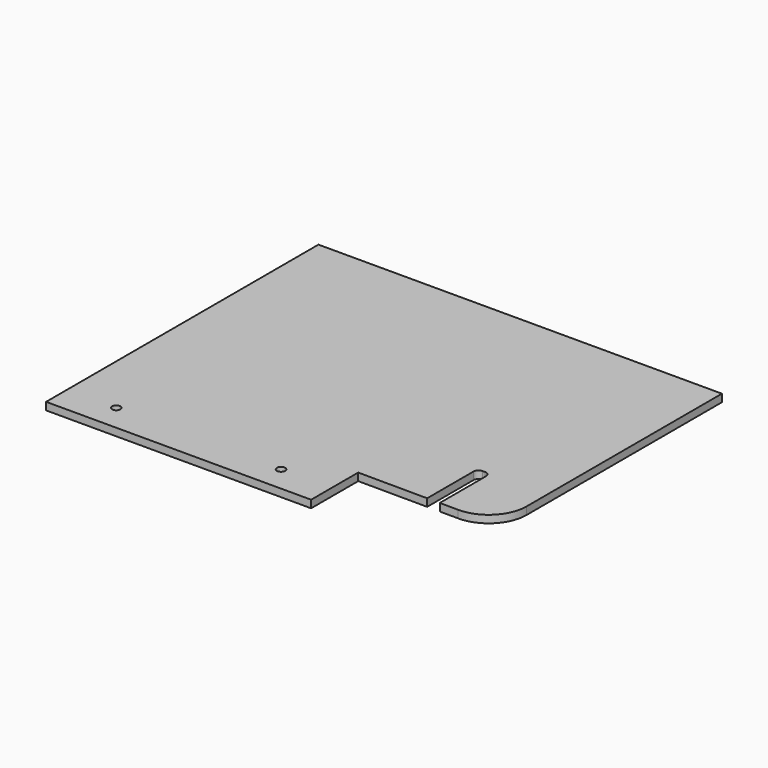
from build123d import *

# Parameters (mm, degrees)
F1_DEPTH = 3
F2_R     = 2
F3_R     = 2
F4_D     = 3.3
F5_R     = 15


with BuildPart() as f1:
    # F0 (on Top) → F1 (new body)
    with BuildSketch(Plane.XY):
        Polygon((110.177106271, 34.1935047355), (-49.822893729, 34.1935047355), (-49.822893729, -100.8064952645), (55.2746254304, -100.8064952645), (55.2746254304, -77.4659737945), (82.7258658507, -77.6009281682), (82.7258658507, -52.6009281682), (87.7258054305, -52.6255086135), (87.7258054305, -77.6009281682), (110.177106271, -77.7358825419), align=None)
    extrude(amount=F1_DEPTH)

    # F2
    f2_edges = [f1.edges().sort_by_distance(p)[0] for p in [
        (82.725866, -52.600928, 1.5),
    ]]
    fillet(f2_edges, radius=F2_R)

    # F3
    f3_edges = [f1.edges().sort_by_distance(p)[0] for p in [
        (87.725805, -52.625509, 1.5),
    ]]
    fillet(f3_edges, radius=F3_R)

    # F4 (through all)
    with Locations(Plane(origin=(0, 0, 0), x_dir=(1, 0, 0), z_dir=(0, 0, -1))):
        with Locations((-30.323264641, 90.3856833279), (35.2748671111, 90.7081734832)):
            Hole(F4_D / 2)

    # F5
    f5_edges = [f1.edges().sort_by_distance(p)[0] for p in [
        (110.177106, -77.735883, 1.5),
    ]]
    fillet(f5_edges, radius=F5_R)


solid = f1.part
